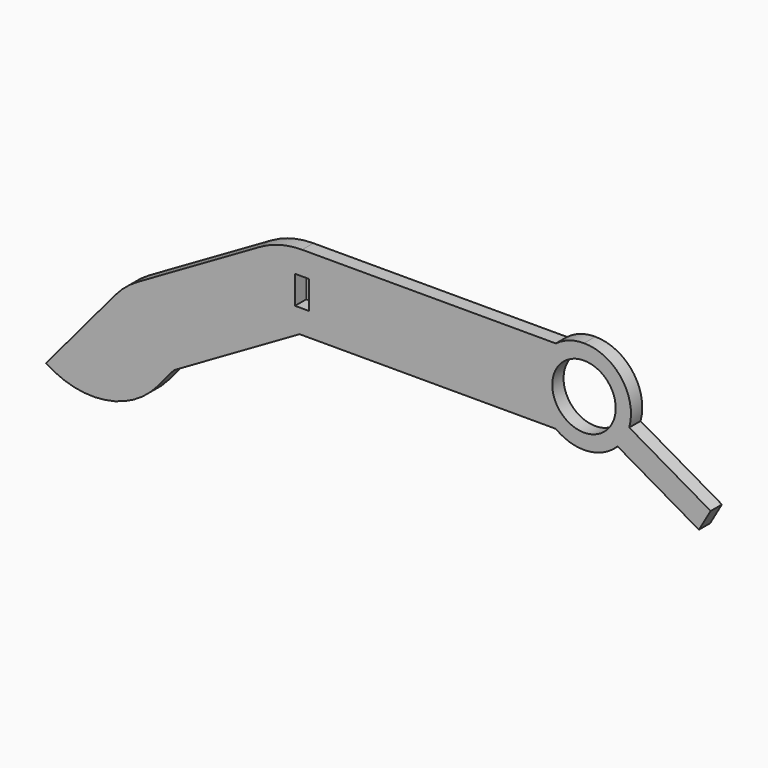
from build123d import *

# Parameters (mm, degrees)
F0_W     = 3
F0_H     = 6
F0_R     = 6.75
F1_DEPTH = 3


with BuildPart() as f1:
    # F0 (on Front) → F1 (new body)
    with BuildSketch(Plane.XZ):
        with BuildLine():
            Line((-57.286169, -23.444276), (-30.535898, -8))
            Line((-30.535898, -8), (24, -8))
            ThreePointArc((24, -8), (26.837722, -9.486833), (30, -10))
            ThreePointArc((30, -10), (33.868919, -9.221251), (37.135255, -7.006293))
            Line((37.135255, -7.006293), (54.455763, -17.006293))
            Line((54.455763, -17.006293), (56.955763, -12.676166))
            Line((56.955763, -12.676166), (39.635255, -2.676166))
            ThreePointArc((39.635255, -2.676166), (37.961208, 6.051378), (30, 10))
            ThreePointArc((30, 10), (26.837722, 9.486833), (24, 8))
            Line((24, 8), (-30, 8))
            ThreePointArc((-30, 8), (-34.658743, 7.386665), (-39, 5.588457))
            Line((-39, 5.588457), (-64.980762, -9.411543))
            ThreePointArc((-64.980762, -9.411543), (-67.550939, -11.2112), (-69.769562, -13.429823))
            Line((-69.769562, -13.429823), (-84.482034, -30.963465))
            ThreePointArc((-84.482034, -30.963465), (-71.951476, -33.790904), (-60.726789, -27.544647))
            Line((-60.726789, -27.544647), (-57.286169, -23.444276))
        make_face()
        with Locations((-30, 0)):
            Rectangle(F0_W, F0_H, mode=Mode.SUBTRACT)
        with Locations((30, 0)):
            Circle(F0_R, mode=Mode.SUBTRACT)
    extrude(amount=F1_DEPTH)


solid = f1.part
